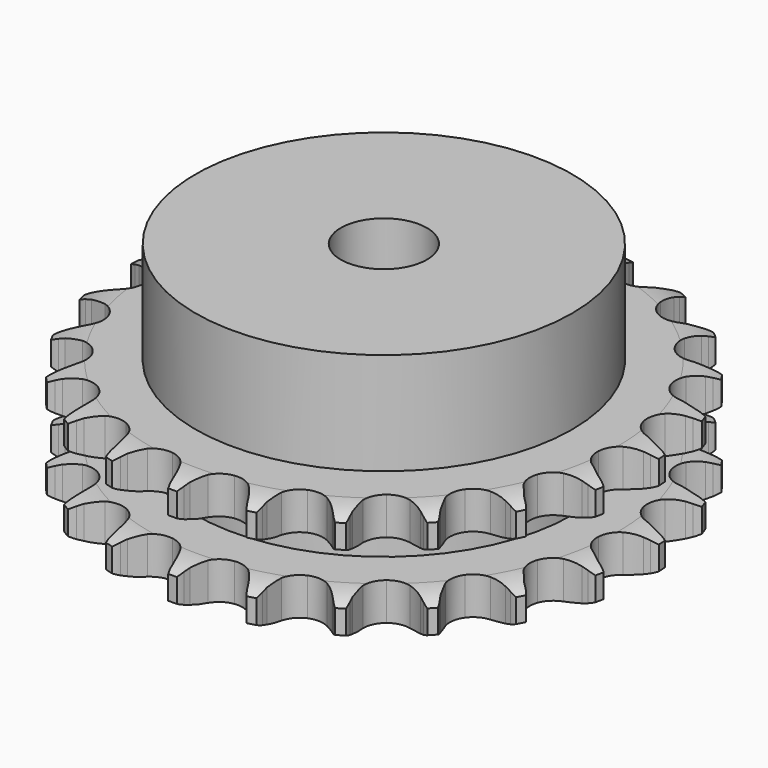
from build123d import *

# Parameters (mm, degrees)
PAD_DEPTH         = 21
SKETCH001_R       = 35
PAD001_DEPTH      = 40
SKETCH002_R       = 8
POCKET_DEPTH      = 0.001
POCKET_DEPTH_BACK = 40.001


with BuildPart() as part:
    # Sprocket → Pad (new body)
    with BuildSketch(Plane.XY):
        with BuildLine():
            ThreePointArc((-6.865869, 49.952903), (-5.980558, 48.870427), (-5.328613, 47.633296))
            Line((-5.328613, 47.633296), (-4.916044, 46.61438))
            ThreePointArc((-4.916044, 46.61438), (-4.255818, 45.256795), (-3.417835, 44.001119))
            ThreePointArc((-3.417835, 44.001119), (-1.904528, 42.762779), (0, 42.319658))
            ThreePointArc((0, 42.319658), (1.904528, 42.762779), (3.417835, 44.001119))
            ThreePointArc((3.417835, 44.001119), (4.255818, 45.256795), (4.916044, 46.61438))
            Line((4.916044, 46.61438), (5.328613, 47.633296))
            ThreePointArc((5.328613, 47.633296), (5.980558, 48.870427), (6.865869, 49.952903))
            ThreePointArc((6.865869, 49.952903), (7.426301, 48.671715), (7.720296, 47.304566))
            Line((7.720296, 47.304566), (7.842665, 46.212126))
            ThreePointArc((7.842665, 46.212126), (8.112137, 44.726756), (8.580267, 43.291559))
            ThreePointArc((8.580267, 43.291559), (9.703357, 41.690855), (11.417707, 40.75033))
            ThreePointArc((11.417707, 40.75033), (13.371163, 40.663184), (15.162452, 41.447317))
            Line((15.162452, 41.447317), (17.310154, 43.55946))
            ThreePointArc((17.310154, 43.55946), (17.635485, 44.00268), (17.982323, 44.429281))
            ThreePointArc((17.982323, 44.429281), (18.943866, 45.444644), (20.088396, 46.248125))
            ThreePointArc((20.088396, 46.248125), (20.282385, 44.863244), (20.196626, 43.467474))
            Line((20.196626, 43.467474), (20.01972, 42.382529))
            ThreePointArc((20.01972, 42.382529), (19.878451, 40.879539), (19.942011, 39.371262))
            ThreePointArc((19.942011, 39.371262), (20.591588, 37.526911), (21.988615, 36.158737))
            ThreePointArc((21.988615, 36.158737), (23.84612, 35.547786), (25.78254, 35.819558))
            Line((25.78254, 35.819558), (28.420448, 37.273933))
            ThreePointArc((28.420448, 37.273933), (28.853295, 37.612944), (29.302366, 37.930151))
            ThreePointArc((29.302366, 37.930151), (30.502195, 38.648439), (31.821058, 39.113335))
            ThreePointArc((31.821058, 39.113335), (31.634217, 37.727471), (31.175064, 36.406597))
            Line((31.175064, 36.406597), (30.712004, 35.409614))
            ThreePointArc((30.712004, 35.409614), (30.170472, 34.000472), (29.824746, 32.530979))
            ThreePointArc((29.824746, 32.530979), (29.952635, 30.579767), (30.928728, 28.885416))
            ThreePointArc((30.928728, 28.885416), (32.552519, 27.795972), (34.490454, 27.535225))
            Line((34.490454, 27.535225), (37.422927, 28.22397))
            ThreePointArc((37.422927, 28.22397), (37.931187, 28.433628), (38.449187, 28.617914))
            ThreePointArc((38.449187, 28.617914), (39.798315, 28.985857), (41.193698, 29.077688))
            ThreePointArc((41.193698, 29.077688), (40.639884, 27.793624), (39.841391, 26.64561))
            Line((39.841391, 26.64561), (39.126519, 25.81053))
            ThreePointArc((39.126519, 25.81053), (38.224887, 24.599747), (37.495517, 23.278022))
            ThreePointArc((37.495517, 23.278022), (37.092233, 21.364662), (37.574999, 19.469795))
            ThreePointArc((37.574999, 19.469795), (38.844646, 17.982657), (40.64037, 17.208731))
            Line((40.64037, 17.208731), (43.64992, 17.080764))
            ThreePointArc((43.64992, 17.080764), (44.195897, 17.14552), (44.744407, 17.183218))
            ThreePointArc((44.744407, 17.183218), (46.142776, 17.173526), (47.511191, 16.885481))
            ThreePointArc((47.511191, 16.885481), (46.631477, 15.798452), (45.552864, 14.90844))
            Line((45.552864, 14.90844), (44.639199, 14.297197))
            ThreePointArc((44.639199, 14.297197), (43.444336, 13.37457), (42.385417, 12.29864))
            ThreePointArc((42.385417, 12.29864), (41.480869, 10.565038), (41.434504, 8.610189))
            ThreePointArc((41.434504, 8.610189), (42.255844, 6.835651), (43.776175, 5.605944))
            Line((43.776175, 5.605944), (46.639597, 4.670755))
            ThreePointArc((46.639597, 4.670755), (47.182799, 4.585808), (47.72114, 4.474121))
            ThreePointArc((47.72114, 4.474121), (49.065038, 4.087513), (50.304995, 3.440956))
            ThreePointArc((50.304995, 3.440956), (49.164627, 2.63158), (47.885889, 2.065579))
            Line((47.885889, 2.065579), (46.841194, 1.723506))
            ThreePointArc((46.841194, 1.723506), (45.441718, 1.157463), (44.131784, 0.407125))
            ThreePointArc((44.131784, 0.407125), (42.793059, -1.018147), (42.221001, -2.887996))
            ThreePointArc((42.221001, -2.887996), (42.53312, -4.818323), (43.665301, -6.41261))
            Line((43.665301, -6.41261), (46.170229, -8.085662))
            ThreePointArc((46.170229, -8.085662), (46.670369, -8.314013), (47.158614, -8.566801))
            ThreePointArc((47.158614, -8.566801), (48.348372, -9.301652), (49.367908, -10.258769))
            ThreePointArc((49.367908, -10.258769), (48.051461, -10.730463), (46.667437, -10.930476))
            Line((46.667437, -10.930476), (45.569192, -10.978009))
            ThreePointArc((45.569192, -10.978009), (44.068896, -11.145487), (42.605098, -11.514585))
            ThreePointArc((42.605098, -11.514585), (40.931484, -12.525821), (39.87616, -14.171991))
            ThreePointArc((39.87616, -14.171991), (39.655908, -16.114945), (40.315972, -17.95557))
            Line((40.315972, -17.95557), (42.276626, -20.242402))
            ThreePointArc((42.276626, -20.242402), (42.696611, -20.597222), (43.098549, -20.972363))
            ThreePointArc((43.098549, -20.972363), (44.045927, -22.000956), (44.769429, -23.197649))
            ThreePointArc((44.769429, -23.197649), (43.374538, -23.296678), (41.987874, -23.115868))
            Line((41.987874, -23.115868), (40.917532, -22.865336))
            ThreePointArc((40.917532, -22.865336), (39.427685, -22.621828), (37.918588, -22.582311))
            ThreePointArc((37.918588, -22.582311), (36.034207, -23.104511), (34.573886, -24.404914))
            ThreePointArc((34.573886, -24.404914), (33.837599, -26.216395), (33.976591, -28.166848))
            Line((33.976591, -28.166848), (35.247559, -30.897856))
            ThreePointArc((35.247559, -30.897856), (35.556241, -31.352829), (35.842062, -31.8225))
            ThreePointArc((35.842062, -31.8225), (36.476798, -33.06855), (36.850607, -34.416064))
            ThreePointArc((36.850607, -34.416064), (35.480724, -34.135084), (34.194264, -33.586862))
            Line((34.194264, -33.586862), (33.231205, -33.056845))
            ThreePointArc((33.231205, -33.056845), (31.862304, -32.420412), (30.419829, -31.97521))
            ThreePointArc((30.419829, -31.97521), (28.464438, -31.969646), (26.707426, -32.827836))
            ThreePointArc((26.707426, -32.827836), (25.509711, -34.373495), (25.117323, -36.289119))
            Line((25.117323, -36.289119), (25.604342, -39.261758))
            ThreePointArc((25.604342, -39.261758), (25.778827, -39.78314), (25.927334, -40.312508))
            ThreePointArc((25.927334, -40.312508), (26.202351, -41.683601), (26.198743, -43.081998))
            ThreePointArc((26.198743, -43.081998), (24.955467, -42.441847), (23.864621, -41.566872))
            Line((23.864621, -41.566872), (23.080271, -40.796679))
            ThreePointArc((23.080271, -40.796679), (21.933841, -39.814522), (20.664971, -38.996655))
            ThreePointArc((20.664971, -38.996655), (18.783593, -38.463738), (16.860198, -38.816069))
            ThreePointArc((16.860198, -38.816069), (15.289883, -39.981271), (14.395217, -41.719993))
            Line((14.395217, -41.719993), (14.062168, -44.713794))
            ThreePointArc((14.062168, -44.713794), (14.089516, -45.262918), (14.089693, -45.812722))
            ThreePointArc((14.089693, -45.812722), (13.984596, -47.207169), (13.603839, -48.552737))
            ThreePointArc((13.603839, -48.552737), (12.579377, -47.600893), (11.765048, -46.464057))
            Line((11.765048, -46.464057), (11.21758, -45.51081))
            ThreePointArc((11.21758, -45.51081), (10.378645, -44.255771), (9.377486, -43.125895))
            ThreePointArc((9.377486, -43.125895), (7.709654, -42.105151), (5.762526, -41.92549))
            ThreePointArc((5.762526, -41.92549), (3.936075, -42.623818), (2.605484, -44.056686))
            Line((2.605484, -44.056686), (1.477068, -46.849613))
            ThreePointArc((1.477068, -46.849613), (1.355249, -47.385752), (1.207085, -47.915216))
            ThreePointArc((1.207085, -47.915216), (0.729667, -49.229598), (0, -50.422542))
            ThreePointArc((0, -50.422542), (-0.729667, -49.229598), (-1.207085, -47.915216))
            Line((-1.207085, -47.915216), (-1.477068, -46.849613))
            ThreePointArc((-1.477068, -46.849613), (-1.946287, -45.414771), (-2.605484, -44.056686))
            ThreePointArc((-2.605484, -44.056686), (-3.936075, -42.623818), (-5.762526, -41.92549))
            ThreePointArc((-5.762526, -41.92549), (-7.709654, -42.105151), (-9.377486, -43.125895))
            Line((-9.377486, -43.125895), (-11.21758, -45.51081))
            ThreePointArc((-11.21758, -45.51081), (-11.47953, -45.994201), (-11.765048, -46.464057))
            ThreePointArc((-11.765048, -46.464057), (-12.579377, -47.600893), (-13.603839, -48.552737))
            ThreePointArc((-13.603839, -48.552737), (-13.984596, -47.207169), (-14.089693, -45.812722))
            Line((-14.089693, -45.812722), (-14.062168, -44.713794))
            ThreePointArc((-14.062168, -44.713794), (-14.126872, -43.205566), (-14.395217, -41.719993))
            ThreePointArc((-14.395217, -41.719993), (-15.289883, -39.981271), (-16.860198, -38.816069))
            ThreePointArc((-16.860198, -38.816069), (-18.783593, -38.463738), (-20.664971, -38.996655))
            Line((-20.664971, -38.996655), (-23.080271, -40.796679))
            ThreePointArc((-23.080271, -40.796679), (-23.462925, -41.191472), (-23.864621, -41.566872))
            ThreePointArc((-23.864621, -41.566872), (-24.955467, -42.441847), (-26.198743, -43.081998))
            ThreePointArc((-26.198743, -43.081998), (-26.202351, -41.683601), (-25.927334, -40.312508))
            Line((-25.927334, -40.312508), (-25.604342, -39.261758))
            ThreePointArc((-25.604342, -39.261758), (-25.259732, -37.792002), (-25.117323, -36.289119))
            ThreePointArc((-25.117323, -36.289119), (-25.509711, -34.373495), (-26.707426, -32.827836))
            ThreePointArc((-26.707426, -32.827836), (-28.464438, -31.969646), (-30.419829, -31.97521))
            Line((-30.419829, -31.97521), (-33.231205, -33.056845))
            ThreePointArc((-33.231205, -33.056845), (-33.706182, -33.333759), (-34.194264, -33.586862))
            ThreePointArc((-34.194264, -33.586862), (-35.480724, -34.135084), (-36.850607, -34.416064))
            ThreePointArc((-36.850607, -34.416064), (-36.476798, -33.06855), (-35.842062, -31.8225))
            Line((-35.842062, -31.8225), (-35.247559, -30.897856))
            ThreePointArc((-35.247559, -30.897856), (-34.519193, -29.575578), (-33.976591, -28.166848))
            ThreePointArc((-33.976591, -28.166848), (-33.837599, -26.216395), (-34.573886, -24.404914))
            ThreePointArc((-34.573886, -24.404914), (-36.034207, -23.104511), (-37.918588, -22.582311))
            Line((-37.918588, -22.582311), (-40.917532, -22.865336))
            ThreePointArc((-40.917532, -22.865336), (-41.449606, -23.003833), (-41.987874, -23.115868))
            ThreePointArc((-41.987874, -23.115868), (-43.374538, -23.296678), (-44.769429, -23.197649))
            ThreePointArc((-44.769429, -23.197649), (-44.045927, -22.000956), (-43.098549, -20.972363))
            Line((-43.098549, -20.972363), (-42.276626, -20.242402))
            ThreePointArc((-42.276626, -20.242402), (-41.218523, -19.165669), (-40.315972, -17.95557))
            ThreePointArc((-40.315972, -17.95557), (-39.655908, -16.114945), (-39.87616, -14.171991))
            ThreePointArc((-39.87616, -14.171991), (-40.931484, -12.525821), (-42.605098, -11.514585))
            Line((-42.605098, -11.514585), (-45.569192, -10.978009))
            ThreePointArc((-45.569192, -10.978009), (-46.118902, -10.967819), (-46.667437, -10.930476))
            ThreePointArc((-46.667437, -10.930476), (-48.051461, -10.730463), (-49.367908, -10.258769))
            ThreePointArc((-49.367908, -10.258769), (-48.348372, -9.301652), (-47.158614, -8.566801))
            Line((-47.158614, -8.566801), (-46.170229, -8.085662))
            ThreePointArc((-46.170229, -8.085662), (-44.860864, -7.334329), (-43.665301, -6.41261))
            ThreePointArc((-43.665301, -6.41261), (-42.53312, -4.818323), (-42.221001, -2.887996))
            ThreePointArc((-42.221001, -2.887996), (-42.793059, -1.018147), (-44.131784, 0.407125))
            Line((-44.131784, 0.407125), (-46.841194, 1.723506))
            ThreePointArc((-46.841194, 1.723506), (-47.36777, 1.881628), (-47.885889, 2.065579))
            ThreePointArc((-47.885889, 2.065579), (-49.164627, 2.63158), (-50.304995, 3.440956))
            ThreePointArc((-50.304995, 3.440956), (-49.065038, 4.087513), (-47.72114, 4.474121))
            Line((-47.72114, 4.474121), (-46.639597, 4.670755))
            ThreePointArc((-46.639597, 4.670755), (-45.17608, 5.040964), (-43.776175, 5.605944))
            ThreePointArc((-43.776175, 5.605944), (-42.255844, 6.835651), (-41.434504, 8.610189))
            ThreePointArc((-41.434504, 8.610189), (-41.480869, 10.565038), (-42.385417, 12.29864))
            Line((-42.385417, 12.29864), (-44.639199, 14.297197))
            ThreePointArc((-44.639199, 14.297197), (-45.103588, 14.591524), (-45.552864, 14.90844))
            ThreePointArc((-45.552864, 14.90844), (-46.631477, 15.798452), (-47.511191, 16.885481))
            ThreePointArc((-47.511191, 16.885481), (-46.142776, 17.173526), (-44.744407, 17.183218))
            Line((-44.744407, 17.183218), (-43.64992, 17.080764))
            ThreePointArc((-43.64992, 17.080764), (-42.140792, 17.042392), (-40.64037, 17.208731))
            ThreePointArc((-40.64037, 17.208731), (-38.844646, 17.982657), (-37.574999, 19.469795))
            ThreePointArc((-37.574999, 19.469795), (-37.092233, 21.364662), (-37.495517, 23.278022))
            Line((-37.495517, 23.278022), (-39.126519, 25.81053))
            ThreePointArc((-39.126519, 25.81053), (-39.494278, 26.219233), (-39.841391, 26.64561))
            ThreePointArc((-39.841391, 26.64561), (-40.639884, 27.793624), (-41.193698, 29.077688))
            ThreePointArc((-41.193698, 29.077688), (-39.798315, 28.985857), (-38.449187, 28.617914))
            Line((-38.449187, 28.617914), (-37.422927, 28.22397))
            ThreePointArc((-37.422927, 28.22397), (-35.980115, 27.779863), (-34.490454, 27.535225))
            ThreePointArc((-34.490454, 27.535225), (-32.552519, 27.795972), (-30.928728, 28.885416))
            ThreePointArc((-30.928728, 28.885416), (-29.952635, 30.579767), (-29.824746, 32.530979))
            Line((-29.824746, 32.530979), (-30.712004, 35.409614))
            ThreePointArc((-30.712004, 35.409614), (-30.955859, 35.902381), (-31.175064, 36.406597))
            ThreePointArc((-31.175064, 36.406597), (-31.634217, 37.727471), (-31.821058, 39.113335))
            ThreePointArc((-31.821058, 39.113335), (-30.502195, 38.648439), (-29.302366, 37.930151))
            Line((-29.302366, 37.930151), (-28.420448, 37.273933))
            ThreePointArc((-28.420448, 37.273933), (-27.150958, 36.457029), (-25.78254, 35.819558))
            ThreePointArc((-25.78254, 35.819558), (-23.84612, 35.547786), (-21.988615, 36.158737))
            ThreePointArc((-21.988615, 36.158737), (-20.591588, 37.526911), (-19.942011, 39.371262))
            Line((-19.942011, 39.371262), (-20.01972, 42.382529))
            ThreePointArc((-20.01972, 42.382529), (-20.121585, 42.922814), (-20.196626, 43.467474))
            ThreePointArc((-20.196626, 43.467474), (-20.282385, 44.863244), (-20.088396, 46.248125))
            ThreePointArc((-20.088396, 46.248125), (-18.943866, 45.444644), (-17.982323, 44.429281))
            Line((-17.982323, 44.429281), (-17.310154, 43.55946))
            ThreePointArc((-17.310154, 43.55946), (-16.308138, 42.430345), (-15.162452, 41.447317))
            ThreePointArc((-15.162452, 41.447317), (-13.371163, 40.663184), (-11.417707, 40.75033))
            ThreePointArc((-11.417707, 40.75033), (-9.703357, 41.690855), (-8.580267, 43.291559))
            Line((-8.580267, 43.291559), (-7.842665, 46.212126))
            ThreePointArc((-7.842665, 46.212126), (-7.794985, 46.759859), (-7.720296, 47.304566))
            ThreePointArc((-7.720296, 47.304566), (-7.426301, 48.671715), (-6.865869, 49.952903))
        make_face()
    extrude(amount=PAD_DEPTH)

    # Sketch → Groove (revolve, cut)
    with BuildSketch(Plane.XZ):
        with BuildLine():
            ThreePointArc((43.433431, 0), (46.34032, 0.329167), (49.1, 1.3))
            Line((49.1, 1.3), (49.1, 5.7))
            ThreePointArc((49.1, 5.7), (46.34032, 6.670833), (43.433431, 7))
            Line((35, 7), (43.433431, 7))
            Line((35, 14), (35, 7))
            Line((43.433431, 14), (35, 14))
            ThreePointArc((43.433431, 14), (46.34032, 14.329167), (49.1, 15.3))
            Line((49.1, 15.3), (49.1, 19.7))
            ThreePointArc((49.1, 19.7), (46.34032, 20.670833), (43.433431, 21))
            Line((43.433431, 21), (53.433431, 21))
            Line((53.433431, 21), (53.433431, 0))
            Line((43.433431, 0), (53.433431, 0))
        make_face()
    revolve(axis=Axis((0, 0, 0), (0, 0, 1)), mode=Mode.SUBTRACT)

    # Sketch001 → Pad001 (join)
    with BuildSketch(Plane.XY):
        Circle(SKETCH001_R)
    extrude(amount=PAD001_DEPTH)

    # Sketch002 → Pocket (cut, two sides)
    with BuildSketch(Plane.XY) as pocket_sk:
        Circle(SKETCH002_R)
    extrude(amount=-POCKET_DEPTH, mode=Mode.SUBTRACT)
    extrude(pocket_sk.sketch, amount=POCKET_DEPTH_BACK, mode=Mode.SUBTRACT)


solid = part.part
